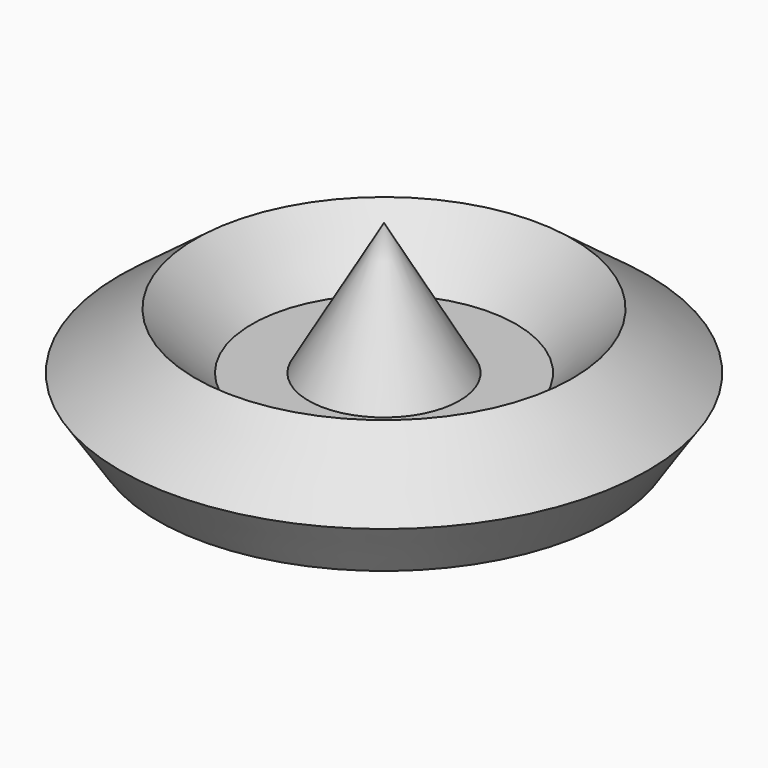
from build123d import *

# Parameters (mm, degrees)
F0_R       = 70
F2_R       = 50
F5_R       = 60
F3_FACE_R  = 70
F3_FACE1_R = 50
F7_R       = 35
F9_R       = 20


with BuildPart() as f3:
    # F0 (on Top) → F3 section 0
    with BuildSketch(Plane.XY):
        Circle(F0_R)
    # F2 (on offset) → F3 section 1
    with BuildSketch(Plane.XY.offset(15)):
        Circle(F2_R)
    loft()

    # F3_face1 (on face) → F8 section 0
    with BuildSketch(Plane.XY.offset(15)):
        Circle(F3_FACE1_R)
    # F7 (on Top) → F8 section 1
    with BuildSketch(Plane.XY):
        Circle(F7_R)
    loft(mode=Mode.SUBTRACT)


with BuildPart() as f6:
    # F5 (on offset) → F6 section 0
    with BuildSketch(Plane.XY.offset(-15)):
        Circle(F5_R)
    # F3_face (on face) → F6 section 1
    with BuildSketch(Plane(origin=(0, 0, 0), x_dir=(1, 0, 0), z_dir=(0, 0, -1))):
        Circle(F3_FACE_R)
    loft()


with BuildPart() as f12:
    # F9 (on Top) → F12 section 0
    with BuildSketch(Plane.XY, mode=Mode.PRIVATE) as f12_s0:
        Circle(F9_R)
    loft([f12_s0.sketch, Vertex(0, 0, 35)])


solid = Compound([f3.part, f6.part, f12.part])
